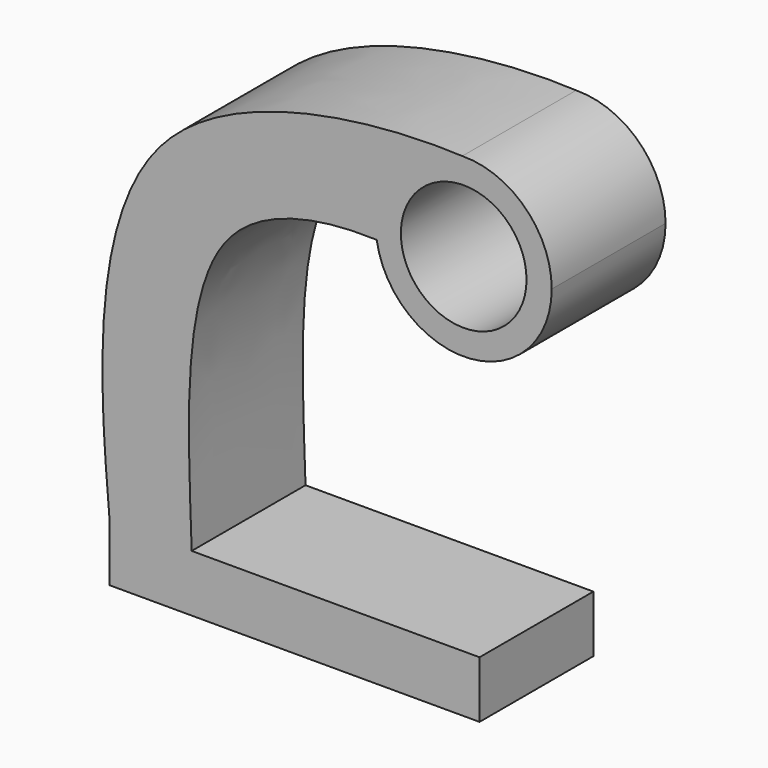
from build123d import *

# Parameters (mm, degrees)
F0_R     = 11.0397722681
F1_DEPTH = 25


with BuildPart() as f1:
    # F0 (on Front) → F1 (new body)
    with BuildSketch(Plane.XZ):
        with BuildLine():
            ThreePointArc((-15.281808943, -2.3855816742), (1.1963752443, -15.4205502746), (15.4668899426, 0))
            ThreePointArc((15.4668899426, 0), (10.8507474742, 11.0220671268), (-0.2422751447, 15.4649923133))
            ThreePointArc((-0.2422751447, 15.4649923133), (-11.8283576464, 9.9656730774), (-15.281808943, -2.3855816742))
        make_face()
        Circle(F0_R, mode=Mode.SUBTRACT)
        with BuildLine():
            ThreePointArc((-15.281808943, -2.3855816742), (-11.8283576464, 9.9656730774), (-0.2422751447, 15.4649923133))
            add(Edge.make_bspline(
                [(-0.2422751447, 15.4649923133), (-13.7210243371, 16.1475211296), (-68.8443678546, 11.8277540092), (-63.7171922402, -43.1873857309), (-62.2152356955, -61.0776618162)],
                knots=[0, 0, 0, 0, 0.4855623541, 1, 1, 1, 1], degree=3))
            Line((-62.2152356955, -61.0776618162), (-47.7942863978, -61.0776618162))
            add(Edge.make_bspline(
                [(-15.281808943, -2.3855816742), (-23.8943081644, -2.0788610843), (-50.9638557981, -5.1678809076), (-48.3787098331, -42.9678229302), (-47.7942863978, -61.0776618162)],
                knots=[0, 0, 0, 0, 0.4252988236, 1, 1, 1, 1], degree=3))
        make_face()
        Polygon((-47.7942863978, -61.0776618162), (-62.2152356955, -61.0776618162), (-62.2152356955, -71.0776618162), (2.7847643045, -71.0776618162), (2.7847643045, -61.0776618162), align=None)
    extrude(amount=F1_DEPTH)


solid = f1.part
